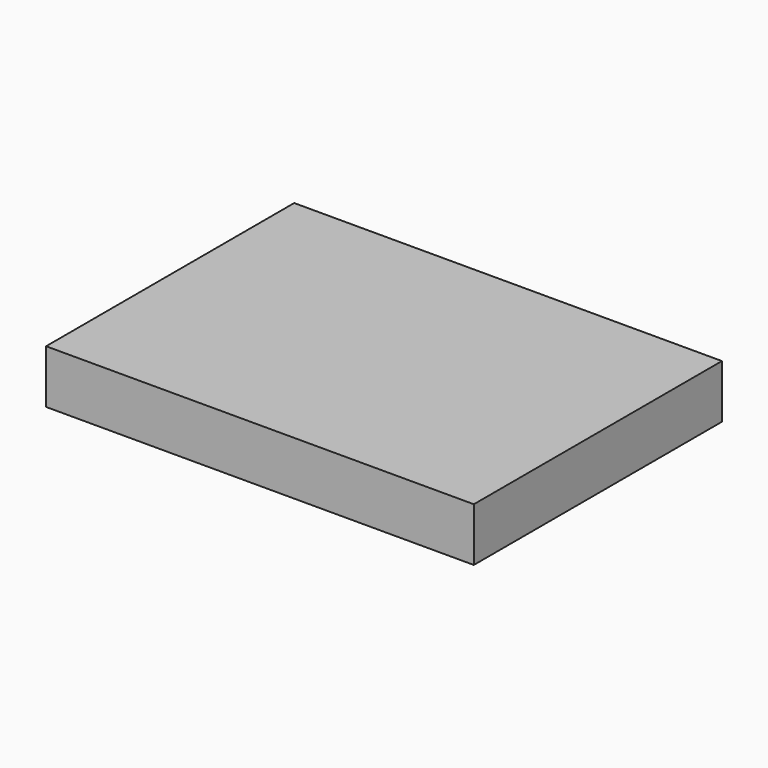
from build123d import *

# Parameters (mm, degrees)
F0_W     = 20
F0_H     = 45
F0_W_2   = 35
F0_H_2   = 10
F0_W_3   = 50
F0_H_3   = 15
F0_H_4   = 55
F0_W_4   = 10
F0_W_5   = 65
F0_H_5   = 5
F1_DEPTH = 25


with BuildPart() as f1:
    # F0 (on Top) → F1 (new body)
    with BuildSketch(Plane.XY):
        Polygon((324.0729115903, -90.9337763619), (174.0729115903, -90.9337763619), (174.0729115903, -180.9337763619), (280.0729115903, -180.9337763619), (315.0729115903, -180.9337763619), (324.0729115903, -180.9337763619), (324.0729115903, -165.9337763619), (324.0729115903, -135.9337763619), align=None)
        with Locations((364.0729115903, -113.4337763619)):
            Rectangle(F0_W, F0_H)
        with Locations((297.5729115903, -185.9337763619)):
            Rectangle(F0_W_2, F0_H_2)
        with Locations((349.0729115903, -173.4337763619)):
            Rectangle(F0_W_3, F0_H_3)
        Polygon((280.0729115903, -180.9337763619), (174.0729115903, -180.9337763619), (174.0729115903, -194.9337763619), (280.0729115903, -194.9337763619), (280.0729115903, -190.9337763619), align=None)
        with Locations((349.0729115903, -208.4337763619)):
            Rectangle(F0_W_3, F0_H_4)
        Polygon((280.0729115903, -190.9337763619), (280.0729115903, -194.9337763619), (294.0729115903, -194.9337763619), (294.0729115903, -199.9337763619), (294.0729115903, -209.9337763619), (284.0729115903, -209.9337763619), (274.0729115903, -209.9337763619), (274.0729115903, -214.9337763619), (274.0729115903, -217.9337763619), (274.0729115903, -219.9337763619), (269.0729115903, -219.9337763619), (264.0729115903, -219.9337763619), (264.0729115903, -223.9337763619), (264.0729115903, -224.9337763619), (264.0729115903, -230.9337763619), (239.0729115903, -230.9337763619), (239.0729115903, -235.9337763619), (324.0729115903, -235.9337763619), (324.0729115903, -180.9337763619), (315.0729115903, -180.9337763619), (315.0729115903, -190.9337763619), align=None)
        Polygon((280.0729115903, -194.9337763619), (174.0729115903, -194.9337763619), (174.0729115903, -209.9337763619), (264.0729115903, -209.9337763619), (269.0729115903, -209.9337763619), (274.0729115903, -209.9337763619), (284.0729115903, -209.9337763619), (294.0729115903, -209.9337763619), (294.0729115903, -199.9337763619), (294.0729115903, -194.9337763619), align=None)
        Polygon((264.0729115903, -223.9337763619), (174.0729115903, -223.9337763619), (174.0729115903, -230.9337763619), (239.0729115903, -230.9337763619), (264.0729115903, -230.9337763619), (264.0729115903, -224.9337763619), align=None)
        with Locations((344.0729115903, -113.4337763619)):
            Rectangle(F0_W, F0_H)
        with Locations((329.0729115903, -113.4337763619)):
            Rectangle(F0_W_4, F0_H)
        with Locations((206.5729115903, -233.4337763619)):
            Rectangle(F0_W_5, F0_H_5)
        Polygon((264.0729115903, -209.9337763619), (174.0729115903, -209.9337763619), (174.0729115903, -216.9337763619), (264.0729115903, -216.9337763619), (264.0729115903, -214.9337763619), align=None)
        Polygon((334.0729115903, -135.9337763619), (324.0729115903, -135.9337763619), (324.0729115903, -165.9337763619), (374.0729115903, -165.9337763619), (374.0729115903, -135.9337763619), (354.0729115903, -135.9337763619), align=None)
        Polygon((264.0729115903, -216.9337763619), (174.0729115903, -216.9337763619), (174.0729115903, -223.9337763619), (264.0729115903, -223.9337763619), (264.0729115903, -219.9337763619), align=None)
        with BuildLine():
            Line((269.0729115903, -209.9337763619), (264.0729115903, -209.9337763619))
            Line((264.0729115903, -209.9337763619), (264.0729115903, -214.9337763619))
            ThreePointArc((264.0729115903, -214.9337763619), (265.5373776844, -211.398242456), (269.0729115903, -209.9337763619))
        make_face()
        with BuildLine():
            ThreePointArc((274.0729115903, -214.9337763619), (272.6084454963, -211.398242456), (269.0729115903, -209.9337763619))
            ThreePointArc((269.0729115903, -209.9337763619), (265.5373776844, -211.398242456), (264.0729115903, -214.9337763619))
            ThreePointArc((264.0729115903, -214.9337763619), (265.5373776844, -218.4693102679), (269.0729115903, -219.9337763619))
            ThreePointArc((269.0729115903, -219.9337763619), (272.6084454963, -218.4693102679), (274.0729115903, -214.9337763619))
        make_face()
        with BuildLine():
            Line((274.0729115903, -217.9337763619), (274.0729115903, -214.9337763619))
            ThreePointArc((274.0729115903, -214.9337763619), (272.6084454963, -218.4693102679), (269.0729115903, -219.9337763619))
            Line((269.0729115903, -219.9337763619), (274.0729115903, -219.9337763619))
            Line((274.0729115903, -219.9337763619), (274.0729115903, -217.9337763619))
        make_face()
        with BuildLine():
            Line((274.0729115903, -209.9337763619), (269.0729115903, -209.9337763619))
            ThreePointArc((269.0729115903, -209.9337763619), (272.6084454963, -211.398242456), (274.0729115903, -214.9337763619))
            Line((274.0729115903, -214.9337763619), (274.0729115903, -209.9337763619))
        make_face()
        with BuildLine():
            Line((264.0729115903, -214.9337763619), (264.0729115903, -216.9337763619))
            Line((264.0729115903, -216.9337763619), (264.0729115903, -219.9337763619))
            Line((264.0729115903, -219.9337763619), (269.0729115903, -219.9337763619))
            ThreePointArc((269.0729115903, -219.9337763619), (265.5373776844, -218.4693102679), (264.0729115903, -214.9337763619))
        make_face()
    extrude(amount=F1_DEPTH)


solid = f1.part
